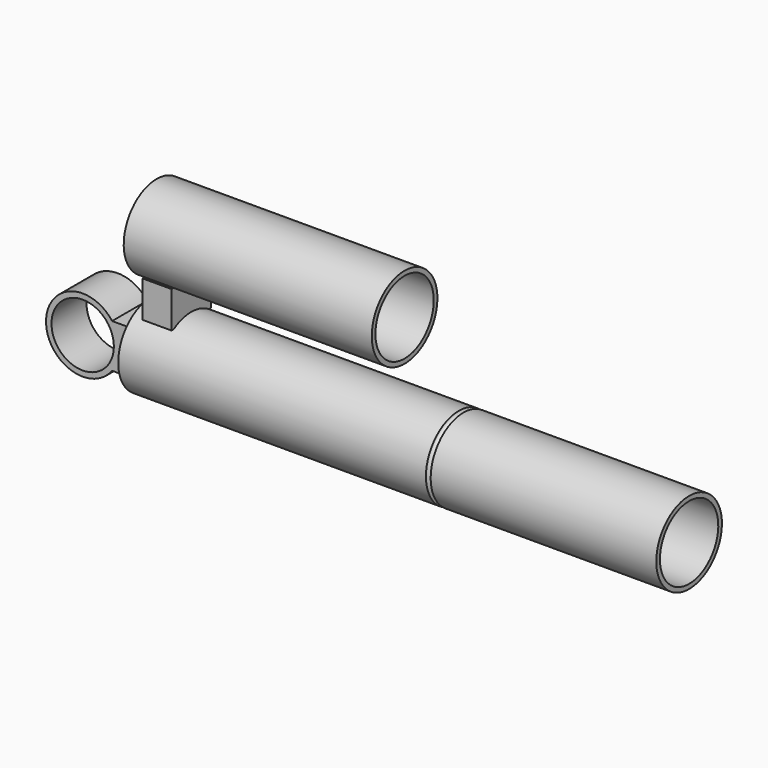
from build123d import *

# Parameters (mm, degrees)
F2_R     = 17.1
F3_DEPTH = 12
F6_W     = 15.8
F6_H     = 20
F7_DEPTH = 13.5


with BuildPart() as f1:
    # F0 (on Front) → F1 (revolve)
    with BuildSketch(Plane.XZ):
        with BuildLine():
            Line((27.9, 20), (322.9, 20))
            Line((322.9, 20), (322.9, 22.5))
            Line((322.9, 22.5), (199.2, 22.5))
            ThreePointArc((199.2, 22.5), (197.9, 21.2), (196.6, 22.5))
            Line((196.6, 22.5), (27.9, 22.5))
            Line((27.9, 22.5), (27.9, 20))
        make_face()
        with BuildLine():
            ThreePointArc((25.4, 0), (26.027422517, 10.0778221854), (27.9, 20))
            Line((27.9, 20), (27.9, 22.5))
            ThreePointArc((27.9, 22.5), (24.1650624277, 11.5244305716), (22.9, 0))
            Line((22.9, 0), (25.4, 0))
        make_face()
    revolve(axis=Axis((175.4, 0, 0), (1, 0, 0)))

    # F2 (on Front) → F3 (join, symmetric)
    with BuildSketch(Plane.XZ):
        with BuildLine():
            ThreePointArc((16.1248255805, -12), (19.0803432119, -6.320641021), (20.1, 0))
            ThreePointArc((20.1, 0), (19.0803432119, 6.320641021), (16.1248255805, 12))
            ThreePointArc((16.1248255805, 12), (-20.1, 0), (16.1248255805, -12))
        make_face()
        Circle(F2_R, mode=Mode.SUBTRACT)
        with BuildLine():
            ThreePointArc((16.1248255805, 12), (19.0803432119, 6.320641021), (20.1, 0))
            ThreePointArc((20.1, 0), (19.0803432119, -6.320641021), (16.1248255805, -12))
            Line((16.1248255805, -12), (26.1248255805, -12))
            Line((26.1248255805, -12), (26.1248255805, 12))
            Line((26.1248255805, 12), (16.1248255805, 12))
        make_face()
    extrude(amount=F3_DEPTH, both=True)



with BuildPart() as f5:
    # F4 (on Front) → F5 (revolve)
    with BuildSketch(Plane.XZ):
        Polygon((33.445, 78), (166.9, 78), (166.9, 80.5), (30.9, 80.5), (30.9, 58), (33.445, 58), align=None)
    revolve(axis=Axis((98.9, 0, 58), (1, 0, 0)))


with BuildPart() as f1_1:
    add(f1.part)

    add(f5.part)  # F7 merges F5
    # F6 (on Front) → F7 (join, symmetric)
    with BuildSketch(Plane.XZ):
        with Locations((42, 29)):
            Rectangle(F6_W, F6_H)
    extrude(amount=F7_DEPTH, both=True)


solid = f1_1.part
